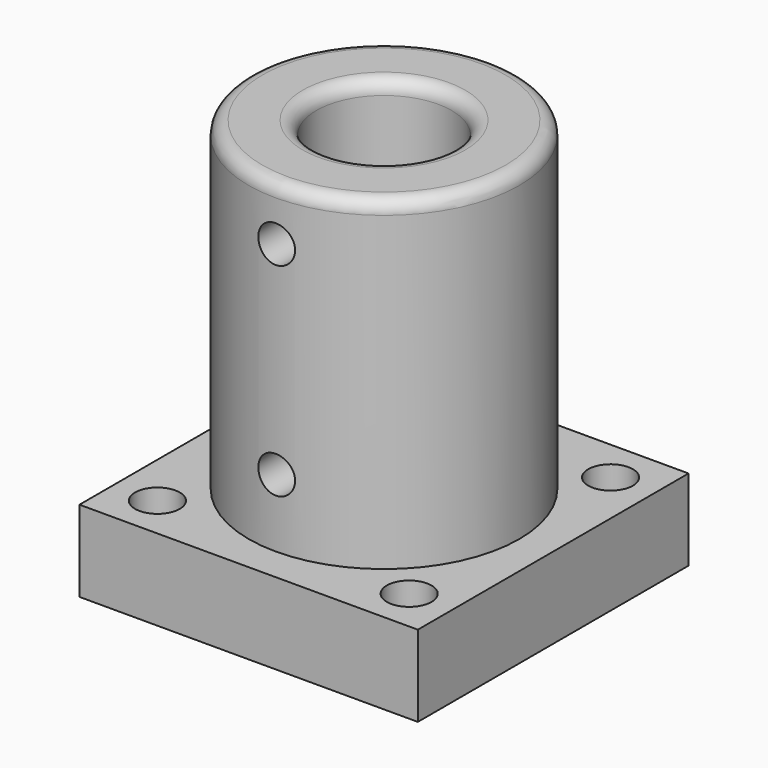
from build123d import *

# Parameters (mm, degrees)
F0_W     = 31.75
F0_H     = 31.75
F0_R     = 2.0955
F0_R_2   = 12.7
F1_DEPTH = 7.62
F0_R_3   = 6.35
F2_DEPTH = 38.1
F3_R     = 1.7272
F4_DEPTH = 15.875
F5_R     = 1.27


with BuildPart() as f1:
    # F0 (on Top) → F1 (new body)
    with BuildSketch(Plane.XY):
        with Locations((15.875, 15.875)):
            Rectangle(F0_W, F0_H)
        with Locations((4.064, 4.064)):
            Circle(F0_R, mode=Mode.SUBTRACT)
        with Locations((27.686, 4.064)):
            Circle(F0_R, mode=Mode.SUBTRACT)
        with Locations((4.064, 27.686)):
            Circle(F0_R, mode=Mode.SUBTRACT)
        with Locations((15.875, 15.875)):
            Circle(F0_R_2, mode=Mode.SUBTRACT)
        with Locations((27.686, 27.686)):
            Circle(F0_R, mode=Mode.SUBTRACT)
    extrude(amount=F1_DEPTH)

    # F0 (on Top) → F2 (join)
    with BuildSketch(Plane.XY):
        with Locations((15.875, 15.875)):
            Circle(F0_R_2)
        with Locations((15.875, 15.875)):
            Circle(F0_R_3, mode=Mode.SUBTRACT)
    extrude(amount=F2_DEPTH)

    # F3 (on Front) → F4 (cut)
    with BuildSketch(Plane.XZ):
        with Locations((15.875, 13.97)):
            Circle(F3_R)
        with Locations((15.875, 33.02)):
            Circle(F3_R)
    extrude(amount=-F4_DEPTH, mode=Mode.SUBTRACT)

    # F5
    f5_edges = [f1.edges().sort_by_distance(p)[0] for p in [
        (3.175, 15.875, 38.1),
        (9.525, 15.875, 38.1),
    ]]
    fillet(f5_edges, radius=F5_R)


solid = f1.part
